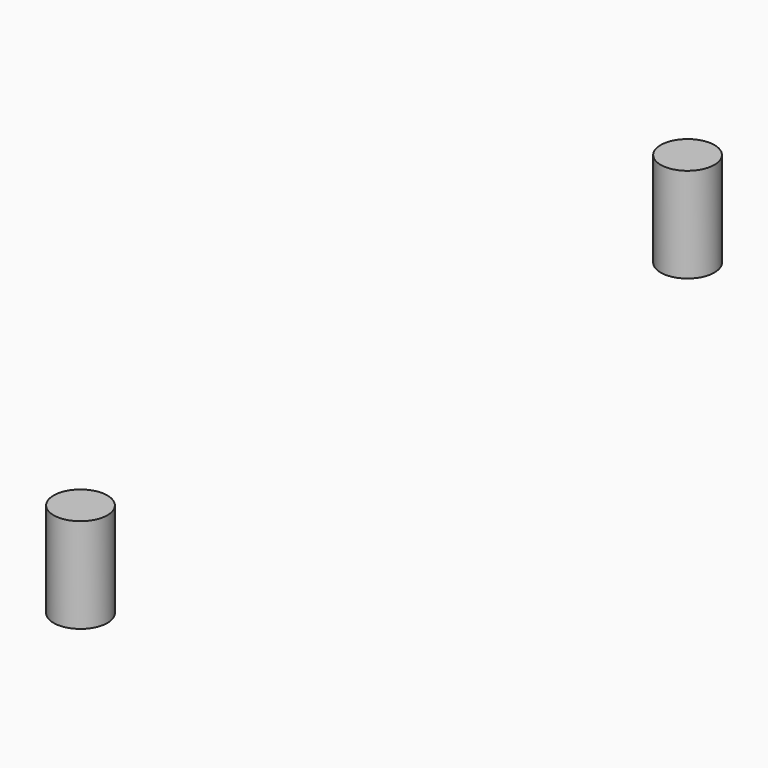
from build123d import *

# Parameters (mm, degrees)
CYLINDER007_R     = 0.85
CYLINDER007_DEPTH = 3
CYLINDER006_R     = 0.85
CYLINDER006_DEPTH = 3


with BuildPart() as cylinder007:
    # Cylinder007 → Cylinder007 (new body)
    with BuildSketch(Plane(origin=(0, -12, 2), x_dir=(1, 0, 0), z_dir=(0, 0, 1))):
        Circle(CYLINDER007_R)
    extrude(amount=CYLINDER007_DEPTH)


with BuildPart() as inner:
    # Cylinder006 → Cylinder006 (new body)
    with BuildSketch(Plane(origin=(0, 12, 2), x_dir=(1, 0, 0), z_dir=(0, 0, 1))):
        Circle(CYLINDER006_R)
    extrude(amount=CYLINDER006_DEPTH)

    # Fusion009: union Cylinder007
    add(cylinder007.part)


solid = inner.part
